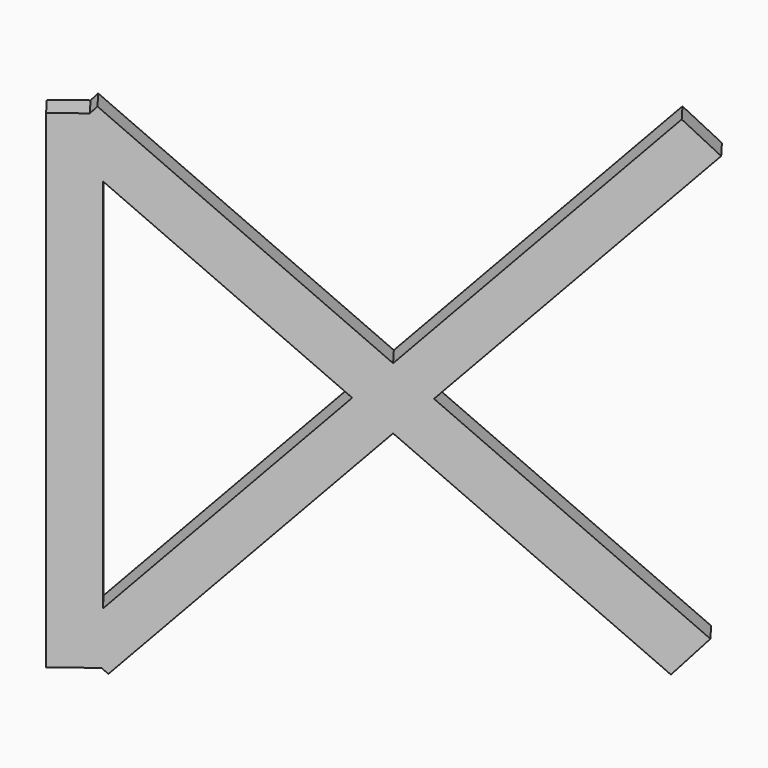
from build123d import *

# Parameters (mm, degrees)
BOX250_W                  = 0.5
BOX250_H                  = 1
BOX250_DEPTH              = 15
BOX250_ROLL_ANGLE         = 46
BOX251_W                  = 0.5
BOX251_H                  = 1
BOX251_DEPTH              = 15
BOX251_ROLL_ANGLE         = -46
BOX249_W                  = 0.5
BOX249_H                  = 1
BOX249_DEPTH              = 11
FUSION026_PLACEMENT_ANGLE = -52.8


with BuildPart() as cubo250:
    # Box250 → Box250 (new body)
    with BuildSketch(Plane.XY):
        with Locations((0.25, 0.5)):
            Rectangle(BOX250_W, BOX250_H)
    extrude(amount=BOX250_DEPTH)


with BuildPart() as cubo250_1:
    # Box250 roll: moved
    add(cubo250.part.rotate(Axis((0, 0, 0), (1, 0, 0)), BOX250_ROLL_ANGLE))


with BuildPart() as cubo250_2:
    # Box250 placement: moved
    add(cubo250_1.part.moved(Location((0, 11, 0.5))))


with BuildPart() as cubo251:
    # Box251 → Box251 (new body)
    with BuildSketch(Plane.XY):
        with Locations((0.25, 0.5)):
            Rectangle(BOX251_W, BOX251_H)
    extrude(amount=BOX251_DEPTH)


with BuildPart() as cubo251_1:
    # Box251 roll: moved
    add(cubo251.part.rotate(Axis((0, 0, 0), (1, 0, 0)), BOX251_ROLL_ANGLE))


with BuildPart() as cubo251_2:
    # Box251 placement: moved
    add(cubo251_1.part.moved(Location((0, 0.4, 1.1))))


with BuildPart() as fusion026:
    # Box249 → Box249 (new body)
    with BuildSketch(Plane.XY.offset(0.5)):
        with Locations((0.25, 0.5)):
            Rectangle(BOX249_W, BOX249_H)
    extrude(amount=BOX249_DEPTH)

    # Fusion026: union Cubo250, Cubo251
    add(cubo250_2.part)
    add(cubo251_2.part)


with BuildPart() as fusion026_1:
    # Fusion026 placement: moved
    add(fusion026.part.moved(Location((-146.4, 182.7, 0))).rotate(Axis((-146.4, 182.7, 0), (0, 0, 1)), FUSION026_PLACEMENT_ANGLE))


solid = fusion026_1.part
